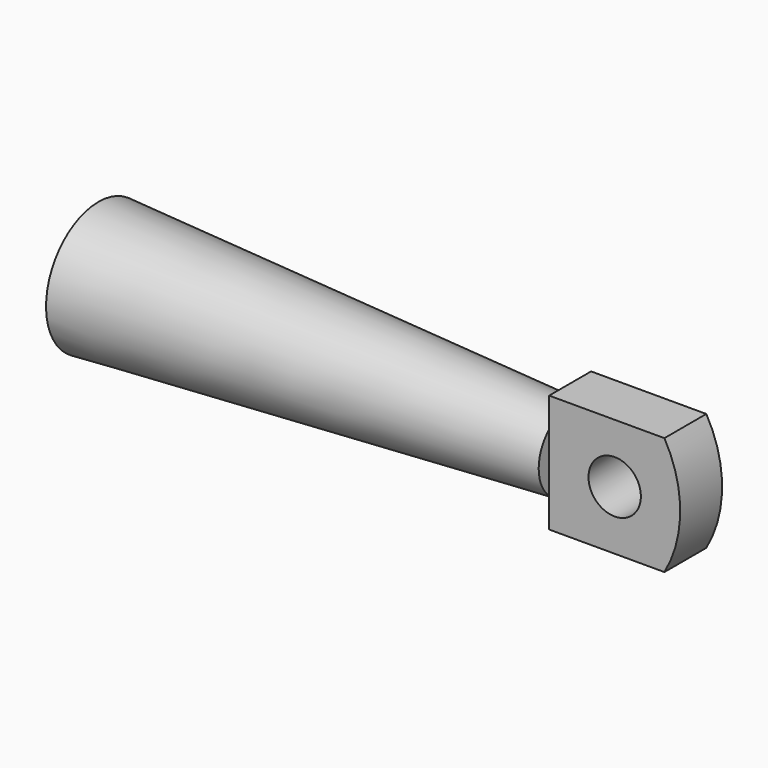
from build123d import *

# Parameters (mm, degrees)
F2_R           = 1
F3_DEPTH       = 1
F5_D           = 1.6
F5_DEPTH       = 6
F5_CSINK_D     = 3
F5_CSINK_ANGLE = 90
F5_TIP         = 0.4806884952


with BuildPart() as f1:
    # F0 (on Front) → F1 (revolve)
    with BuildSketch(Plane.XZ):
        Polygon((-18, 2.5), (-18, 0), (0, 0), (0, 1.5), align=None)
    revolve(axis=Axis((2.7535289992, 0, 0), (1, 0, 0)))

    # F2 (on Front) → F3 (join, symmetric)
    with BuildSketch(Plane.XZ):
        with BuildLine():
            Line((4.397114317, 2.25), (0, 2.25))
            Line((0, 2.25), (0, -2.25))
            Line((0, -2.25), (4.397114317, -2.25))
            ThreePointArc((4.397114317, -2.25), (5, 0), (4.397114317, 2.25))
        make_face()
        with Locations((2.5, 0)):
            Circle(F2_R, mode=Mode.SUBTRACT)
    extrude(amount=F3_DEPTH, both=True)

    # F5
    with Locations(Plane(origin=(-18, 0, 0), x_dir=(0, -1, 0), z_dir=(-1, 0, 0))):
        with Locations((0, 0)):
            CounterSinkHole(F5_D / 2, F5_CSINK_D / 2, depth=F5_DEPTH, counter_sink_angle=F5_CSINK_ANGLE)
            with Locations((0, 0, -(F5_DEPTH + F5_TIP / 2))):  # 118° drill point
                Cone(0, F5_D / 2, F5_TIP, mode=Mode.SUBTRACT)


solid = f1.part
